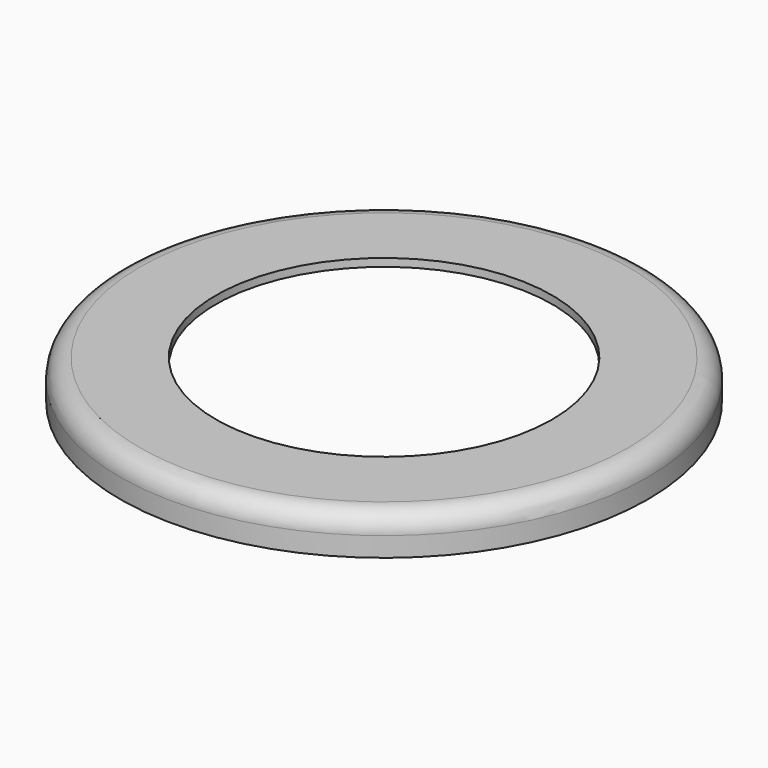
from build123d import *

# Parameters (mm, degrees)
F0_R     = 67.5
F0_R_2   = 65.5
F0_R_3   = 43
F1_DEPTH = 10
F2_DEPTH = 8
F3_R     = 5


with BuildPart() as f1:
    # F0 (on Top) → F1 (new body)
    with BuildSketch(Plane.XY):
        Circle(F0_R)
        Circle(F0_R_2, mode=Mode.SUBTRACT)
        Circle(F0_R_2)
        Circle(F0_R_3, mode=Mode.SUBTRACT)
    extrude(amount=F1_DEPTH)

    # F0 (on Top) → F2 (cut)
    with BuildSketch(Plane.XY):
        Circle(F0_R_2)
        Circle(F0_R_3, mode=Mode.SUBTRACT)
    extrude(amount=F2_DEPTH, mode=Mode.SUBTRACT)

    # F3
    f3_edges = [f1.edges().sort_by_distance(p)[0] for p in [
        (-65.5, 0, 8),
        (-67.5, 0, 10),
    ]]
    fillet(f3_edges, radius=F3_R)


solid = f1.part
